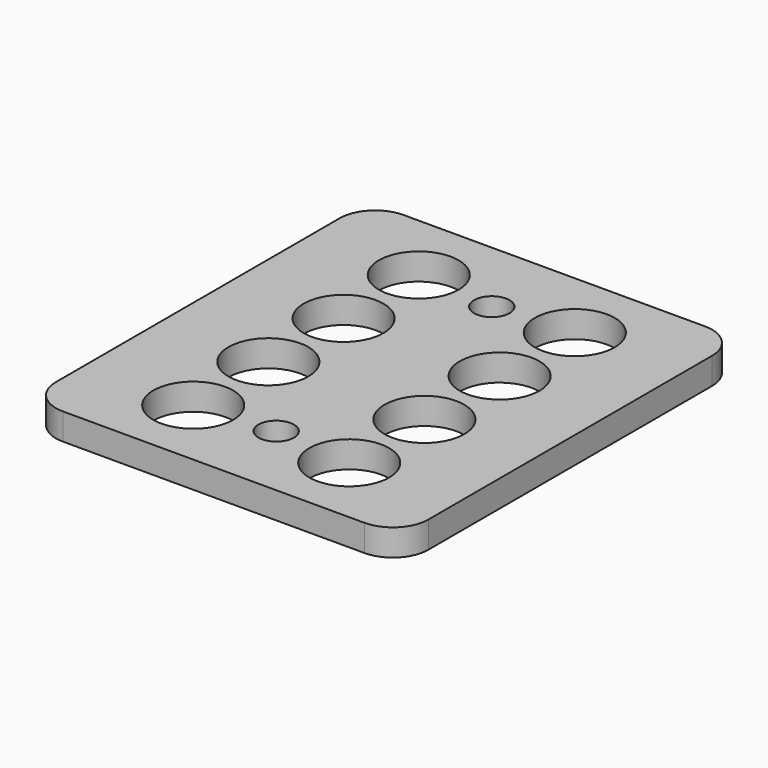
from build123d import *

# Parameters (mm, degrees)
F1_DEPTH = 19.05
F2_R     = 28.575
F3_DEPTH = 19.051
F4_R     = 12.7
F5_DEPTH = 15.24


with BuildPart() as f1:
    # F0 (on Top) → F1 (new body)
    with BuildSketch(Plane.XY):
        with BuildLine():
            ThreePointArc((133.35, 127), (125.910512, 144.960512), (107.95, 152.4))
            Line((107.95, 152.4), (0, 152.4))
            Line((0, 152.4), (0, -152.4))
            Line((0, -152.4), (107.95, -152.4))
            ThreePointArc((107.95, -152.4), (125.910512, -144.960512), (133.35, -127))
            Line((133.35, -127), (133.35, 127))
        make_face()
        with BuildLine():
            Line((0, -152.4), (0, 152.4))
            Line((0, 152.4), (-107.95, 152.4))
            ThreePointArc((-107.95, 152.4), (-125.910512, 144.960512), (-133.35, 127))
            Line((-133.35, 127), (-133.35, -127))
            ThreePointArc((-133.35, -127), (-125.910512, -144.960512), (-107.95, -152.4))
            Line((-107.95, -152.4), (0, -152.4))
        make_face()
    extrude(amount=F1_DEPTH)

    # F2 (on face) → F3 (cut, through all)
    with BuildSketch(Plane.XY.offset(19.05)):
        with Locations((-55.88, 100.965)):
            Circle(F2_R)
        with Locations((-55.88, 33.655)):
            Circle(F2_R)
        with Locations((-55.88, -33.655)):
            Circle(F2_R)
        with Locations((-55.88, -100.965)):
            Circle(F2_R)
        with Locations((55.88, -100.965)):
            Circle(F2_R)
        with Locations((55.88, -33.655)):
            Circle(F2_R)
        with Locations((55.88, 33.655)):
            Circle(F2_R)
        with Locations((55.88, 100.965)):
            Circle(F2_R)
    extrude(amount=-F3_DEPTH, mode=Mode.SUBTRACT)

    # F4 (on face) → F5 (cut)
    with BuildSketch(Plane.XY.offset(19.05)):
        with Locations((0, 96.52)):
            Circle(F4_R)
        with Locations((0, -96.52)):
            Circle(F4_R)
    extrude(amount=-F5_DEPTH, mode=Mode.SUBTRACT)


solid = f1.part
